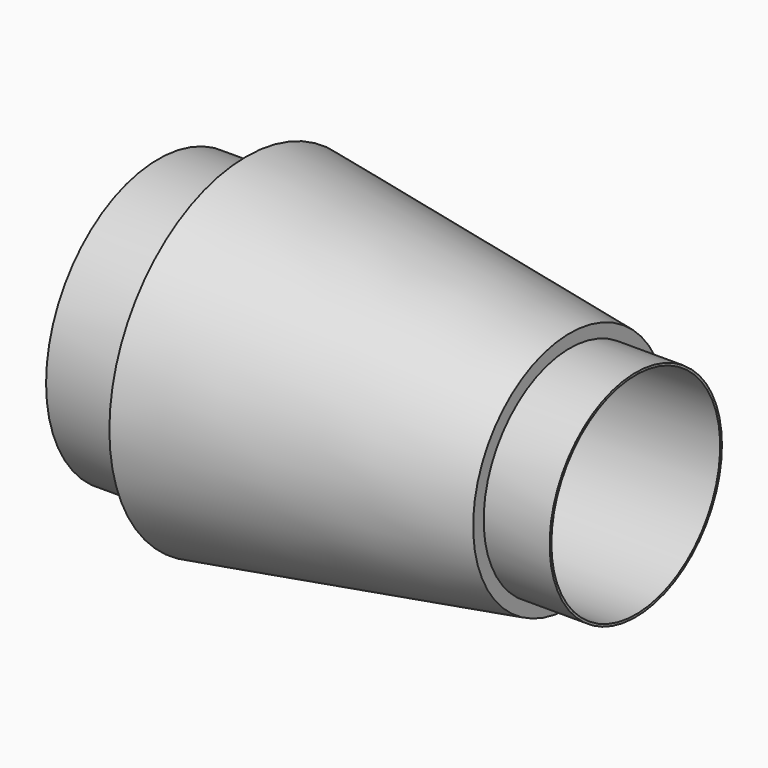
from build123d import *

# Parameters (mm, degrees)
F2_R     = 2.4
F3_DEPTH = 25


with BuildPart() as f1:
    # F0 (on Top) → F1 (revolve)
    with BuildSketch(Plane.XY):
        Polygon((-29.93912, 22.017142), (-31.93912, 22.017142), (-31.93912, 19.824239), (-31.93912, 18.824239), (-21.077308, 18.824239), (-21.077308, 21.274239), (-22.577308, 21.274239), (-22.577308, 21.574239), (-29.93912, 22.717142), align=None)
    revolve(axis=Axis((-26.508214, 18.824239, 0), (-1, 0, 0)))

    # F2 (on face) → F3 (cut)
    with BuildSketch(Plane(origin=(-31.93912, 0, 0), x_dir=(0, -1, 0), z_dir=(-1, 0, 0))):
        with Locations((-18.824239, 0)):
            Circle(F2_R)
    extrude(amount=-F3_DEPTH, mode=Mode.SUBTRACT)


solid = f1.part
